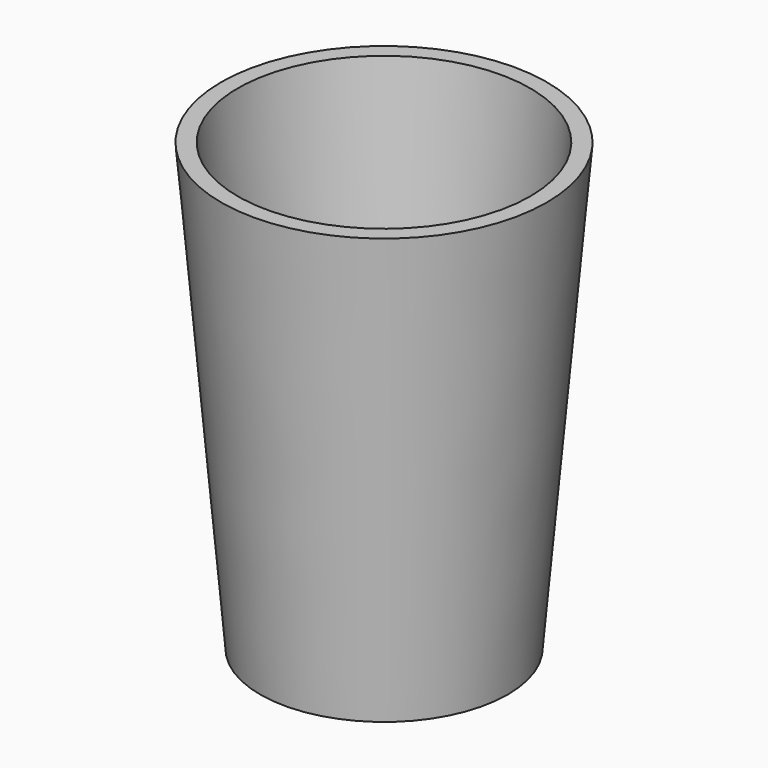
from build123d import *

# Parameters (mm, degrees)
F0_R     = 19.05
F1_DEPTH = 68.58
F1_TAPER = -5
F2_T     = -2.54


with BuildPart() as f1:
    # F0 (on Top) → F1 (new body)
    with BuildSketch(Plane.XY):
        Circle(F0_R)
    extrude(amount=F1_DEPTH, taper=F1_TAPER)

    # F2
    f2_openings = [f1.faces().sort_by_distance(p)[0] for p in [
        (0, 0, 68.58),
    ]]
    offset(amount=F2_T, openings=f2_openings, kind=Kind.INTERSECTION)


solid = f1.part
